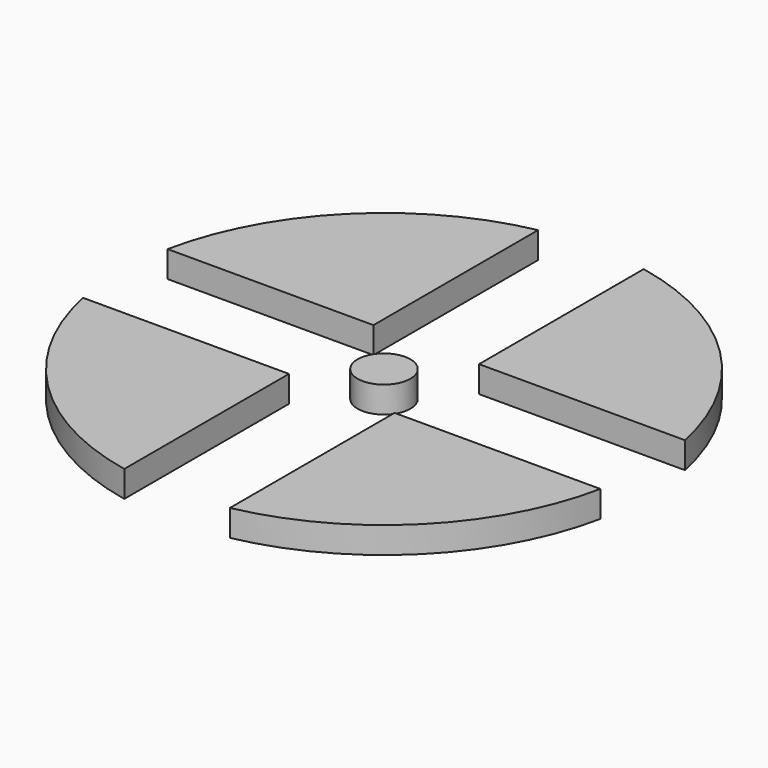
from build123d import *

# Parameters (mm, degrees)
F0_R     = 0.5
F1_DEPTH = 0.5


with BuildPart() as f1:
    # F0 (on Top) → F1 (new body)
    with BuildSketch(Plane.XY):
        Circle(F0_R)
    extrude(amount=F1_DEPTH)


with BuildPart() as f1b:
    # F0 (on Top) → F1, piece 2 (new body)
    with BuildSketch(Plane.XY):
        with BuildLine():
            Line((-1, 1), (-1, 4.8989794856))
            ThreePointArc((-1, 4.8989794856), (-3.5355339059, 3.5355339059), (-4.8989794856, 1))
            Line((-4.8989794856, 1), (-1, 1))
        make_face()
    extrude(amount=F1_DEPTH)


with BuildPart() as f1c:
    # F0 (on Top) → F1, piece 3 (new body)
    with BuildSketch(Plane.XY):
        with BuildLine():
            Line((1, 1), (4.8989794856, 1))
            ThreePointArc((4.8989794856, 1), (3.5355339059, 3.5355339059), (1, 4.8989794856))
            Line((1, 4.8989794856), (1, 1))
        make_face()
    extrude(amount=F1_DEPTH)


with BuildPart() as f1d:
    # F0 (on Top) → F1, piece 4 (new body)
    with BuildSketch(Plane.XY):
        with BuildLine():
            ThreePointArc((1, -4.8989794856), (3.5355339059, -3.5355339059), (4.8989794856, -1))
            Line((4.8989794856, -1), (1, -1))
            Line((1, -1), (1, -4.8989794856))
        make_face()
    extrude(amount=F1_DEPTH)


with BuildPart() as f1e:
    # F0 (on Top) → F1, piece 5 (new body)
    with BuildSketch(Plane.XY):
        with BuildLine():
            ThreePointArc((-4.8989794856, -1), (-3.5355339059, -3.5355339059), (-1, -4.8989794856))
            Line((-1, -4.8989794856), (-1, -1))
            Line((-1, -1), (-4.8989794856, -1))
        make_face()
    extrude(amount=F1_DEPTH)


solid = Compound([f1.part, f1b.part, f1c.part, f1d.part, f1e.part])
